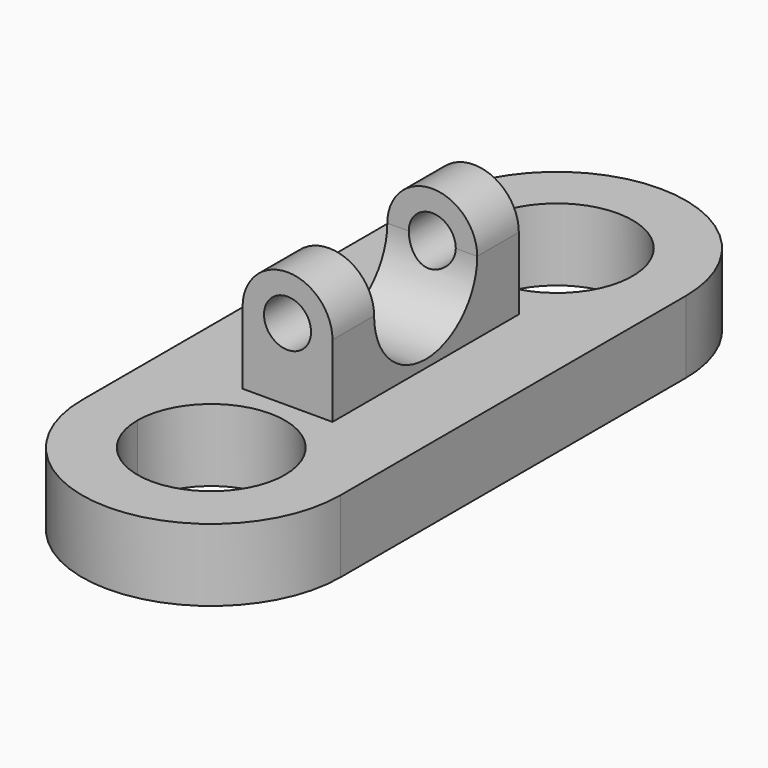
from build123d import *

# Parameters (mm, degrees)
F1_DEPTH  = 25.4
F2_W      = 31.608661
F2_H      = 81.88197
F3_DEPTH  = 50.8
F5_DEPTH  = 76.2
F6_W      = 15.80433
F6_H      = 18.276912
F8_W      = 15.80433
F8_H      = 18.276912
F10_R     = 8.263527
F11_DEPTH = 135.636


with BuildPart() as f1:
    # F0 (on Top) → F1 (new body)
    with BuildSketch(Plane.XY):
        with BuildLine():
            Line((45.138903, 75.711831), (26.379006, 75.711831))
            ThreePointArc((26.379006, 75.711831), (-0.25221, 49.080616), (-26.883425, 75.711831))
            Line((-26.883425, 75.711831), (-45.643322, 75.711831))
            Line((-45.643322, 75.711831), (-45.643322, -76.136142))
            Line((-45.643322, -76.136142), (-26.182505, -76.136142))
            ThreePointArc((-26.182505, -76.136142), (-0.25221, -50.205846), (25.678086, -76.136142))
            Line((25.678086, -76.136142), (45.138903, -76.136142))
            Line((45.138903, -76.136142), (45.138903, 75.711831))
        make_face()
        with BuildLine():
            ThreePointArc((-26.883425, 75.711831), (-0.25221, 102.343047), (26.379006, 75.711831))
            Line((26.379006, 75.711831), (45.138903, 75.711831))
            ThreePointArc((45.138903, 75.711831), (-0.25221, 121.102944), (-45.643322, 75.711831))
            Line((-45.643322, 75.711831), (-26.883425, 75.711831))
        make_face()
        with BuildLine():
            ThreePointArc((-45.643322, -76.136142), (-0.25221, -121.527255), (45.138903, -76.136142))
            Line((45.138903, -76.136142), (25.678086, -76.136142))
            ThreePointArc((25.678086, -76.136142), (-0.25221, -102.066438), (-26.182505, -76.136142))
            Line((-26.182505, -76.136142), (-45.643322, -76.136142))
        make_face()
    extrude(amount=F1_DEPTH)

    # F2 (on Top) → F3 (join)
    with BuildSketch(Plane.XY):
        with Locations((0.401416, -2.476901)):
            Rectangle(F2_W, F2_H)
    extrude(amount=F3_DEPTH)

    # F4 (on face) → F5 (cut)
    with BuildSketch(Plane.YZ.offset(16.205747)):
        with BuildLine():
            ThreePointArc((-25.140974, 50.8), (-2.476901, 28.135927), (20.187172, 50.8))
            Line((20.187172, 50.8), (-25.140974, 50.8))
        make_face()
        with BuildLine():
            Line((-25.140974, 50.8), (20.187172, 50.8))
            ThreePointArc((20.187172, 50.8), (-2.476901, 73.464073), (-25.140974, 50.8))
        make_face()
    extrude(amount=-F5_DEPTH, mode=Mode.SUBTRACT)

    # F6 (on face) → F7 (revolve)
    with BuildSketch(Plane.XY.offset(50.8)):
        with Locations((-7.500749, -34.27943)):
            Rectangle(F6_W, F6_H)
    revolve(axis=Axis((0.401416, -34.27943, 50.8), (0, -1, 0)))

    # F8 (on face) → F9 (revolve)
    with BuildSketch(Plane.XY.offset(50.8)):
        with Locations((-7.500749, 29.325628)):
            Rectangle(F8_W, F8_H)
    revolve(axis=Axis((0.401416, 29.325628, 50.8), (0, -1, 0)))

    # F10 (on face) → F11 (cut)
    with BuildSketch(Plane(origin=(0, 38.464084, 0), x_dir=(-1, 0, 0), z_dir=(0, 1, 0))):
        with Locations((-0.401416, 50.8)):
            Circle(F10_R)
    extrude(amount=-F11_DEPTH, mode=Mode.SUBTRACT)


solid = f1.part
